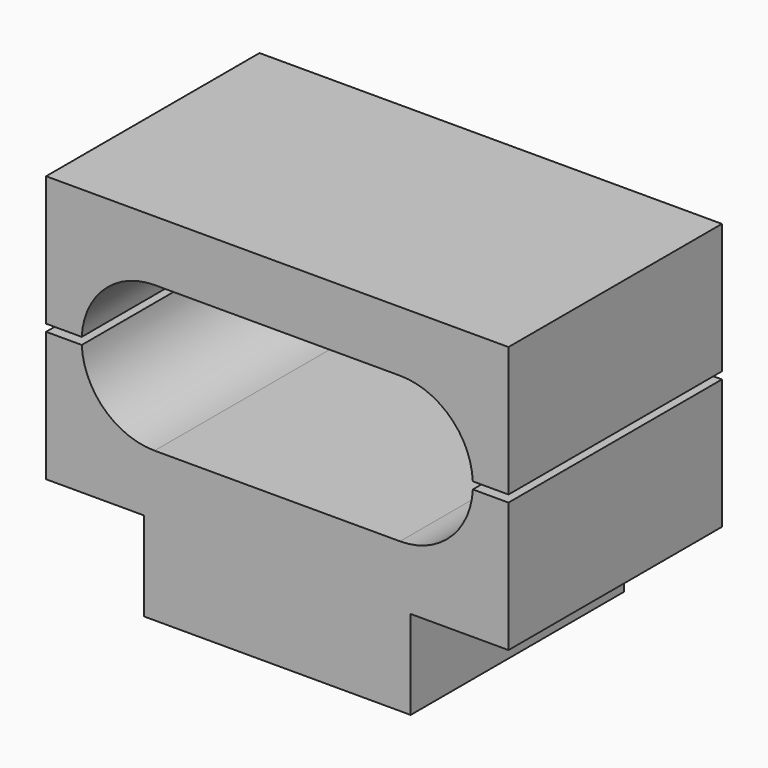
from build123d import *

# Parameters (mm, degrees)
F0_W     = 19.05
F0_H     = 6.35
F1_DEPTH = 19.05


with BuildPart() as f1:
    # F0 (on Front) → F1 (new body)
    with BuildSketch(Plane.XZ):
        with Locations((-8.763, -12.7)):
            Rectangle(F0_W, F0_H)
        with BuildLine():
            Line((0, -5.207), (-17.526, -5.207))
            ThreePointArc((-17.526, -5.207), (-21.11698, -3.770638), (-22.726801, -0.254))
            Line((-22.726801, -0.254), (-25.273, -0.254))
            Line((-25.273, -0.254), (-25.273, -9.525))
            Line((-25.273, -9.525), (-18.288, -9.525))
            Line((-18.288, -9.525), (0.762, -9.525))
            Line((0.762, -9.525), (7.747, -9.525))
            Line((7.747, -9.525), (7.747, -0.254))
            Line((7.747, -0.254), (5.200801, -0.254))
            ThreePointArc((5.200801, -0.254), (3.59098, -3.770638), (0, -5.207))
        make_face()
        with BuildLine():
            ThreePointArc((-22.726801, 0.254), (-21.11698, 3.770638), (-17.526, 5.207))
            Line((-17.526, 5.207), (0, 5.207))
            ThreePointArc((0, 5.207), (3.59098, 3.770638), (5.200801, 0.254))
            Line((5.200801, 0.254), (7.747, 0.254))
            Line((7.747, 0.254), (7.747, 9.525))
            Line((7.747, 9.525), (-25.273, 9.525))
            Line((-25.273, 9.525), (-25.273, 0.254))
            Line((-25.273, 0.254), (-22.726801, 0.254))
        make_face()
    extrude(amount=F1_DEPTH)


solid = f1.part
